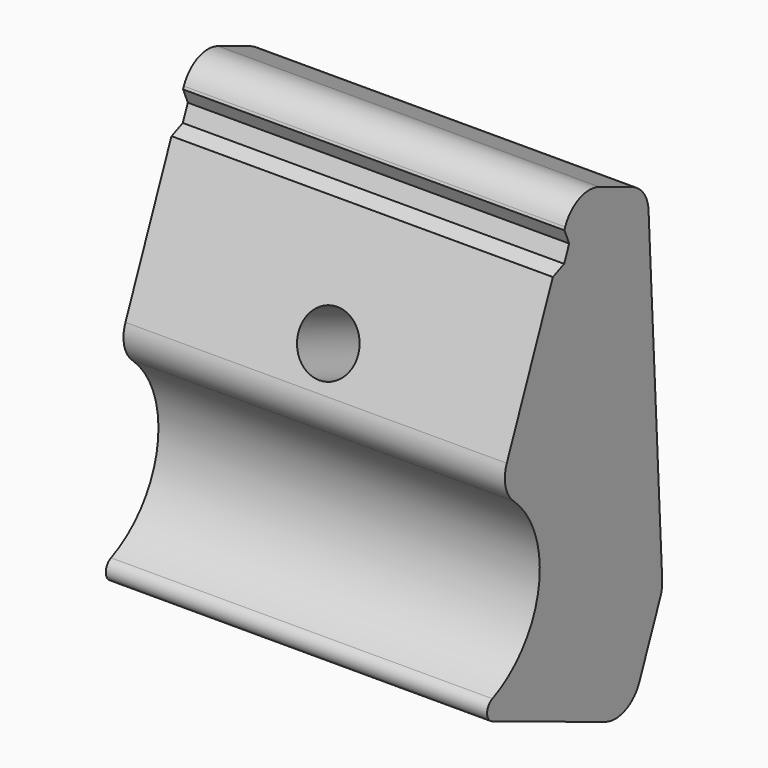
from build123d import *

# Parameters (mm, degrees)
PAD001_DEPTH        = 35
HOLE002_D           = 5.5
HOLE002_CSINK_D     = 10
HOLE002_CSINK_ANGLE = 90
SKETCH004_R         = 6.501169
SKETCH004_R_2       = 5.481256
POCKET_DEPTH        = 13.6312167212
SKETCH007_W         = 3.5
SKETCH007_H         = 35
POCKET002_DEPTH     = 1
CHAMFER_SIZE        = 0.99
FILLET007_R         = 3
FILLET008_R         = 1


with BuildPart() as part:
    # Sketch002 → Pad001 (new body)
    with BuildSketch(Plane.YZ):
        with BuildLine():
            Line((-188.1964293023, 612.8903873712), (-179.4587343049, 634.2262558534))
            Line((-171.1300961638, 630.8154221261), (-179.4587343049, 634.2262558534))
            Line((-169.4299601233, 597.7008988779), (-171.1300961638, 630.8154221261))
            Line((-173.2197753758, 588.446856499), (-169.4299601233, 597.7008988779))
            Line((-191.7278601338, 596.0264870041), (-173.2197753758, 588.446856499))
            ThreePointArc((-191.7278601338, 596.0264870041), (-183.7026179221, 603.1476439882), (-188.1964293023, 612.8903873712))
        make_face()
    extrude(amount=PAD001_DEPTH)

    # Hole002 (through all)
    with Locations(Plane(origin=(0, -364.0835541104, 149.1034242189), x_dir=(0, 0.3789815253, 0.9254042379), z_dir=(0, 0.9254042379, -0.3789815253))):
        with Locations((-506.967621, 13.13074), (501.9041201044, 17.5)):
            CounterSinkHole(HOLE002_D / 2, HOLE002_CSINK_D / 2, counter_sink_angle=HOLE002_CSINK_ANGLE)

    # Sketch004 (on DatumPlane) → Pocket (cut, through all)
    with BuildSketch(Plane(origin=(0, -364.0835541104, 149.1034242189), x_dir=(0, 0.3789815253, 0.9254042379), z_dir=(0, 0.9254042379, -0.3789815253))):
        with Locations((-506.967621, 13.13074)):
            Circle(SKETCH004_R)
        with Locations((501.9041201044, 17.5)):
            Circle(SKETCH004_R_2)
    extrude(amount=POCKET_DEPTH, mode=Mode.SUBTRACT)

    # Sketch007 (on Face6 of Pocket) → Pocket002 (cut)
    with BuildSketch(Plane(origin=(0, -376.1138092031, 154.0301840472), x_dir=(0, -0.3789815253, -0.9254042379), z_dir=(0, -0.9254042379, 0.3789815253))):
        with Locations((-513.9041201044, 17.5)):
            Rectangle(SKETCH007_W, SKETCH007_H)
    extrude(amount=-POCKET002_DEPTH, mode=Mode.SUBTRACT)

    # Chamfer
    chamfer_edges = [part.edges().sort_by_distance(p)[0] for p in [
        (17.5, -179.76502, 630.839711),
        (17.5, -181.091455, 627.600796),
    ]]
    chamfer(chamfer_edges, length=CHAMFER_SIZE)

    # Fillet007
    fillet007_edges = [part.edges().sort_by_distance(p)[0] for p in [
        (17.5, -173.219775, 588.446856),
        (17.5, -188.196429, 612.890387),
        (17.5, -169.42996, 597.700899),
        (17.5, -171.130096, 630.815422),
        (17.5, -179.458734, 634.226256),
    ]]
    fillet(fillet007_edges, radius=FILLET007_R)

    # Fillet008
    fillet008_edges = [part.edges().sort_by_distance(p)[0] for p in [
        (17.5, -191.72786, 596.026487),
    ]]
    fillet(fillet008_edges, radius=FILLET008_R)


solid = part.part
